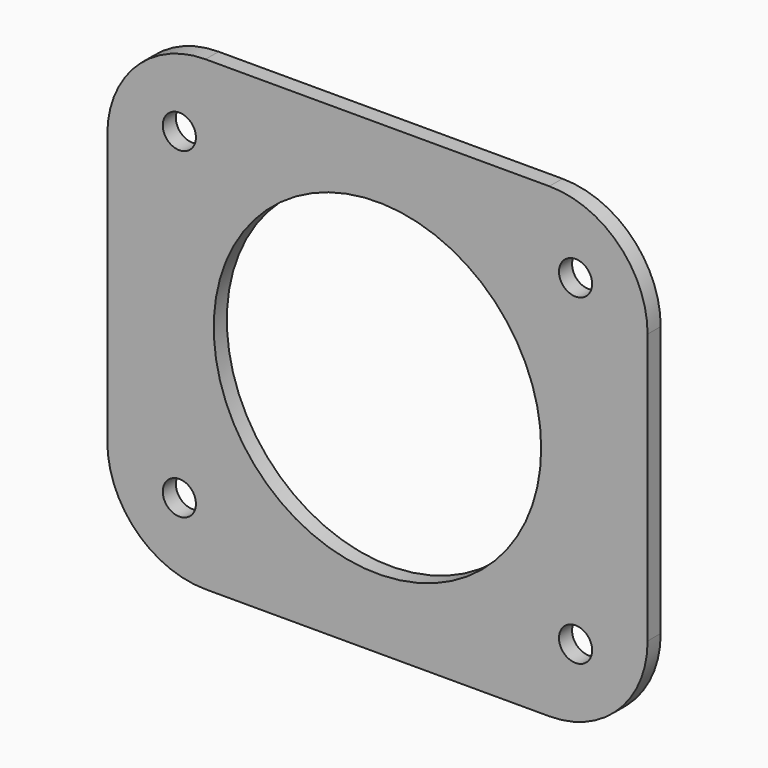
from build123d import *

# Parameters (mm, degrees)
F0_R     = 2.025
F1_DEPTH = 2
F2_R     = 20
F3_DEPTH = 25


with BuildPart() as f1:
    # F0 (on Front) → F1 (new body)
    with BuildSketch(Plane.XZ):
        with BuildLine():
            Line((-21, -28.5), (21, -28.5))
            ThreePointArc((21, -28.5), (29.485281, -24.985281), (33, -16.5))
            Line((33, -16.5), (33, 16.5))
            ThreePointArc((33, 16.5), (29.485281, 24.985281), (21, 28.5))
            Line((21, 28.5), (-21, 28.5))
            ThreePointArc((-21, 28.5), (-29.485281, 24.985281), (-33, 16.5))
            Line((-33, 16.5), (-33, -16.5))
            ThreePointArc((-33, -16.5), (-29.485281, -24.985281), (-21, -28.5))
        make_face()
        with Locations((-24.2, -19.7)):
            Circle(F0_R, mode=Mode.SUBTRACT)
        with Locations((24.2, -19.7)):
            Circle(F0_R, mode=Mode.SUBTRACT)
        with Locations((-24.2, 19.7)):
            Circle(F0_R, mode=Mode.SUBTRACT)
        with Locations((24.2, 19.7)):
            Circle(F0_R, mode=Mode.SUBTRACT)
    extrude(amount=F1_DEPTH)

    # F2 (on face) → F3 (cut)
    with BuildSketch(Plane.XZ.offset(2)):
        Circle(F2_R)
    extrude(amount=-F3_DEPTH, mode=Mode.SUBTRACT)


solid = f1.part
